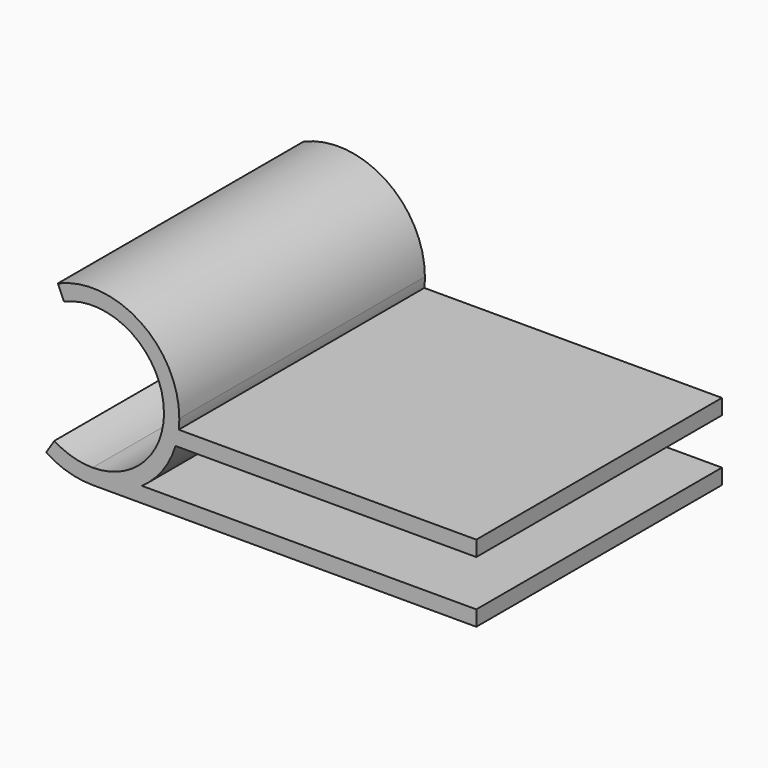
from build123d import *

# Parameters (mm, degrees)
F1_DEPTH = 20


with BuildPart() as f1:
    # F0 (on Front) → F1 (new body)
    with BuildSketch(Plane.XZ):
        with BuildLine():
            ThreePointArc((16.533474996, 1.65), (16.5220473974, 1.3241993292), (16.4878207693, 1))
            Line((16.4878207693, 1), (17.4959610761, 1))
            ThreePointArc((17.4959610761, 1), (17.5240887194, 1.324459183), (17.533474996, 1.65))
            ThreePointArc((17.533474996, 1.65), (14.9770076386, 6.37784896), (9.6210658671, 6.827258438))
            Line((9.6210658671, 6.827258438), (10.0214922616, 5.9109295109))
            ThreePointArc((10.0214922616, 5.9109295109), (14.4294797373, 5.5410615335), (16.533474996, 1.65))
        make_face()
        with BuildLine():
            ThreePointArc((16.4878207693, 1), (14.9330651324, -1.8603418637), (11.883474996, -3))
            Line((11.883474996, -3), (15.0928363032, -3))
            ThreePointArc((15.0928363032, -3), (16.4437619118, -1.6856083771), (17.2871774304, 0))
            Line((17.2871774304, 0), (16.4878207693, 0))
            Line((16.4878207693, 0), (16.4878207693, 1))
        make_face()
        with BuildLine():
            Line((17.4959610761, 1), (16.4878207693, 1))
            Line((16.4878207693, 1), (16.4878207693, 0))
            Line((16.4878207693, 0), (17.2871774304, 0))
            ThreePointArc((17.2871774304, 0), (17.414216569, 0.4952716109), (17.4959610761, 1))
        make_face()
        with BuildLine():
            Line((36.883474996, 1), (17.4959610761, 1))
            ThreePointArc((17.4959610761, 1), (17.414216569, 0.4952716109), (17.2871774304, 0))
            Line((17.2871774304, 0), (36.883474996, 0))
            Line((36.883474996, 0), (36.883474996, 1))
        make_face()
        with BuildLine():
            Line((36.883474996, -3), (15.0928363032, -3))
            ThreePointArc((15.0928363032, -3), (13.5642486274, -3.7442098587), (11.883474996, -4))
            Line((11.883474996, -4), (36.883474996, -4))
            Line((36.883474996, -4), (36.883474996, -3))
        make_face()
        with BuildLine():
            Line((15.0928363032, -3), (11.883474996, -3))
            Line((11.883474996, -3), (11.883474996, -4))
            ThreePointArc((11.883474996, -4), (13.5642486274, -3.7442098587), (15.0928363032, -3))
        make_face()
        with BuildLine():
            Line((11.883474996, -4), (11.883474996, -3))
            ThreePointArc((11.883474996, -3), (10.5859257097, -2.8152957181), (9.3914572446, -2.2758562794))
            Line((9.3914572446, -2.2758562794), (8.8555394486, -3.1201264471))
            ThreePointArc((8.8555394486, -3.1201264471), (10.3068828525, -3.7755743671), (11.883474996, -4))
        make_face()
    extrude(amount=-F1_DEPTH)


solid = f1.part
